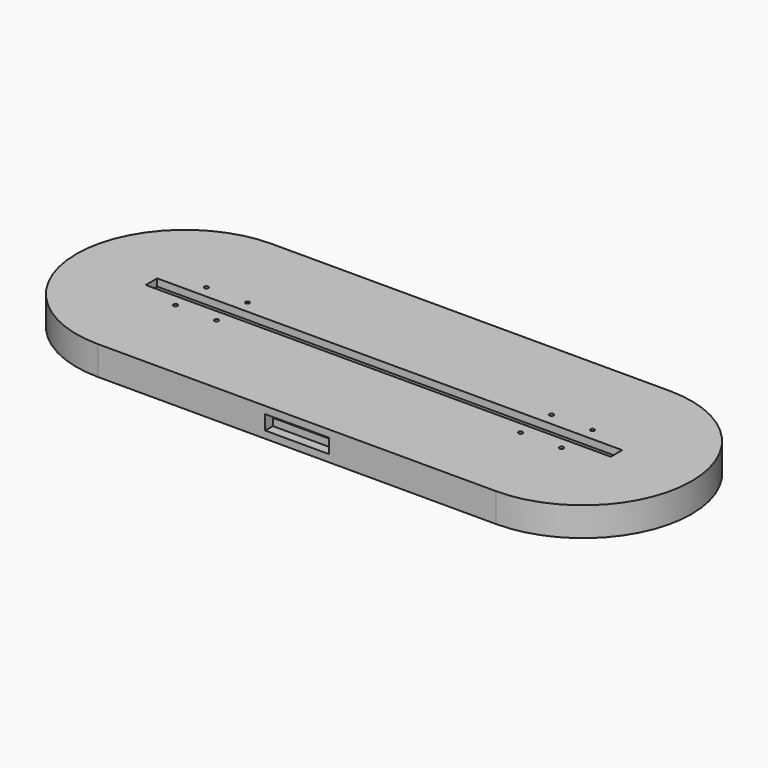
from build123d import *

# Parameters (mm, degrees)
PAD_DEPTH       = 9
POCKET_DEPTH    = 6
SKETCH002_W     = 26.5
SKETCH002_H     = 35
POCKET001_DEPTH = 6
SKETCH003_W     = 192.75
SKETCH003_H     = 5.95
PAD001_DEPTH    = 3
SKETCH004_R     = 0.85
POCKET002_DEPTH = 553.365942
SKETCH005_W     = 26.5
SKETCH005_H     = 7.75
PAD002_DEPTH    = 3


with BuildPart() as part:
    # Sketch → Pad (new body)
    with BuildSketch(Plane.XY):
        with BuildLine():
            ThreePointArc((-82.5, 45), (-127.5, 0), (-82.5, -45))
            Line((-82.5, -45), (82.5, -45))
            ThreePointArc((82.5, -45), (127.5, 0), (82.5, 45))
            Line((-82.5, 45), (82.5, 45))
        make_face()
    extrude(amount=PAD_DEPTH)

    # Sketch001 (on Face6 of Pad) → Pocket (cut)
    with BuildSketch(Plane.XY.offset(9)):
        with BuildLine():
            ThreePointArc((-97.5, 6), (-103.5, 0), (-97.5, -6))
            Line((-97.5, -6), (97.5, -6))
            ThreePointArc((97.5, -6), (103.5, 0), (97.5, 6))
            Line((-97.5, 6), (97.5, 6))
        make_face()
    extrude(amount=-POCKET_DEPTH, mode=Mode.SUBTRACT)

    # Sketch002 (on Face5 of Pocket) → Pocket001 (cut)
    with BuildSketch(Plane.XY.offset(9)):
        with Locations((0, -27.5)):
            Rectangle(SKETCH002_W, SKETCH002_H)
    extrude(amount=-POCKET001_DEPTH, mode=Mode.SUBTRACT)

    # Sketch003 (on Face5 of Pocket001) → Pad001 (join)
    with BuildSketch(Plane.XY.offset(9)):
        with BuildLine():
            ThreePointArc((-82.5, 45), (-127.5, 0), (-82.5, -45))
            Line((-82.5, -45), (82.5, -45))
            ThreePointArc((82.5, -45), (127.5, 0), (82.5, 45))
            Line((-82.5, 45), (82.5, 45))
        make_face()
        Rectangle(SKETCH003_W, SKETCH003_H, mode=Mode.SUBTRACT)
    extrude(amount=PAD001_DEPTH)

    # Sketch004 (on Face12 of Pad001) → Pocket002 (cut, through all)
    with BuildSketch(Plane.XY.offset(12)):
        with Locations((-80, -8)):
            Circle(SKETCH004_R)
        with Locations((-63, -8)):
            Circle(SKETCH004_R)
        with Locations((-63, 8)):
            Circle(SKETCH004_R)
        with Locations((-80, 8)):
            Circle(SKETCH004_R)
    pocket002 = extrude(amount=-POCKET002_DEPTH, mode=Mode.SUBTRACT)

    # Sketch005 (on Face10 of Pocket002) → Pad002 (join)
    with BuildSketch(Plane.XY.offset(3)):
        with Locations((0, -37.125)):
            Rectangle(SKETCH005_W, SKETCH005_H)
    extrude(amount=PAD002_DEPTH)

    # Mirrored: Pocket002 across Sketch004 V_Axis
    add(pocket002.mirror(Plane(origin=(0, 0, 12), x_dir=(0, 0, 1), z_dir=(1, 0, 0))), mode=Mode.SUBTRACT)


solid = part.part
